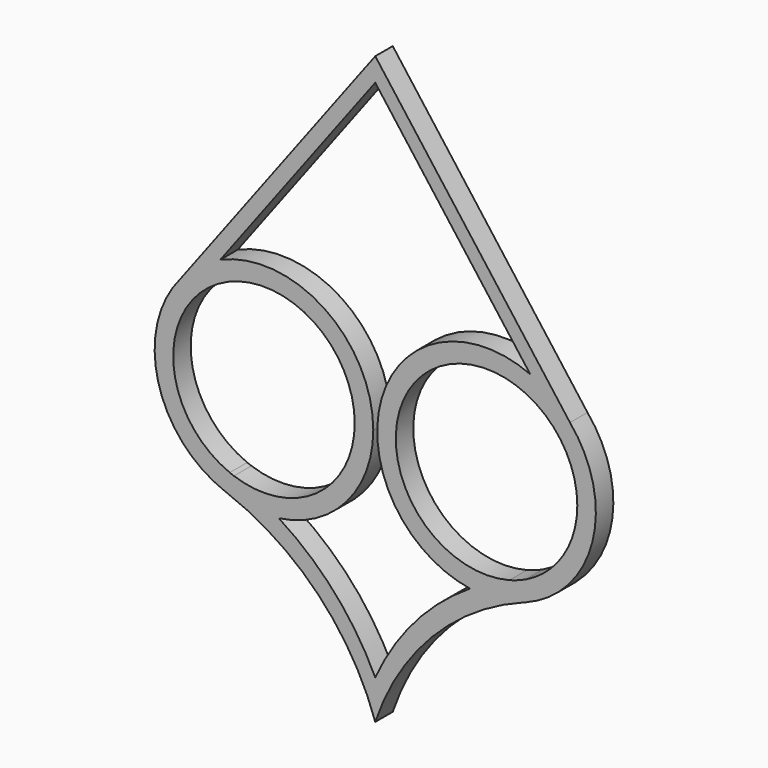
from build123d import *

# Parameters (mm, degrees)
F1_DEPTH = 5
F3_DEPTH = 5


with BuildPart() as f1:
    # F0 (on Front) → F1 (new body)
    with BuildSketch(Plane.XZ):
        with BuildLine():
            ThreePointArc((-22.0468155789, -24.7666841827), (-6.6104134528, -16.4288071016), (-0.4543593565, 0))
            ThreePointArc((-0.4543593565, 0), (-39.618976734, 20.6000877316), (-34.4034485204, -23.3433888529))
            ThreePointArc((-34.4034485204, -23.3433888529), (-34.13988042, -23.4403115833), (-33.876793996, -23.5385342522))
            ThreePointArc((-33.876793996, -23.5385342522), (-28.0359035944, -24.8663553692), (-22.0468155789, -24.7666841827))
        make_face()
        with BuildLine():
            ThreePointArc((-4.6974495608, 0), (-13.4479875789, -16.9321097623), (-32.3216329124, -19.5880029144))
            ThreePointArc((-32.3216329124, -19.5880029144), (-32.7996241433, -19.4138195489), (-33.2732030007, -19.2279741089))
            ThreePointArc((-33.2732030007, -19.2279741089), (-37.0421605292, 17.2212708081), (-4.6974495608, 0))
        make_face(mode=Mode.SUBTRACT)
        with BuildLine():
            ThreePointArc((50.4543593565, 0), (25.4543593565, 25), (0.4543593565, 0))
            ThreePointArc((0.4543593565, 0), (6.4867521845, -16.2858797174), (21.67274961, -24.7123335144))
            ThreePointArc((21.67274961, -24.7123335144), (27.8478432396, -24.8851609378), (33.876793996, -23.5385342522))
            ThreePointArc((33.876793996, -23.5385342522), (34.13988042, -23.4403115833), (34.4034485204, -23.3433888529))
            ThreePointArc((34.4034485204, -23.3433888529), (46.0544470881, -14.1646173775), (50.4543593565, 0))
        make_face()
        with BuildLine():
            ThreePointArc((34.4034485204, -18.7286707324), (32.5837256191, -19.4941386308), (30.6995126262, -20.0832684452))
            ThreePointArc((30.6995126262, -20.0832684452), (9.0269055436, 12.6881072462), (46.2112691521, 0))
            ThreePointArc((46.2112691521, 0), (43.0129005942, -11.0700918636), (34.4034485204, -18.7286707324))
        make_face(mode=Mode.SUBTRACT)
        with BuildLine():
            ThreePointArc((0, -49.6637113392), (-9.2528617859, -35.6473438574), (-22.0468155789, -24.7666841827))
            ThreePointArc((-22.0468155789, -24.7666841827), (-28.0359035944, -24.8663553692), (-33.876793996, -23.5385342522))
            ThreePointArc((-33.876793996, -23.5385342522), (-12.9903930203, -37.2598807121), (0, -58.6085758378))
            Line((0, -58.6085758378), (0, -49.6637113392))
        make_face()
        with BuildLine():
            ThreePointArc((21.67274961, -24.7123335144), (8.9955723313, -35.5891026648), (0, -49.6637113392))
            Line((0, -49.6637113392), (0, -58.6085758378))
            ThreePointArc((0, -58.6085758378), (12.9903930203, -37.2598807121), (33.876793996, -23.5385342522))
            ThreePointArc((33.876793996, -23.5385342522), (27.8478432396, -24.8851609378), (21.67274961, -24.7123335144))
        make_face()
    extrude(amount=F1_DEPTH)

    # F2 (on face) → F3 (join)
    with BuildSketch(Plane.XZ.offset(5)):
        with BuildLine():
            Line((0, 75.4342153668), (-44.5349970754, 16.1533050563))
            ThreePointArc((-44.5349970754, 16.1533050563), (-40.3802571517, 20.0553627493), (-35.4496590764, 22.9149292713))
            Line((-35.4496590764, 22.9149292713), (0, 70.1022695262))
            Line((0, 70.1022695262), (35.4496590764, 22.9149292713))
            ThreePointArc((35.4496590764, 22.9149292713), (40.3802571517, 20.0553627493), (44.5349970754, 16.1533050563))
            Line((44.5349970754, 16.1533050563), (0, 75.4342153668))
        make_face()
    extrude(amount=-F3_DEPTH)


solid = f1.part
